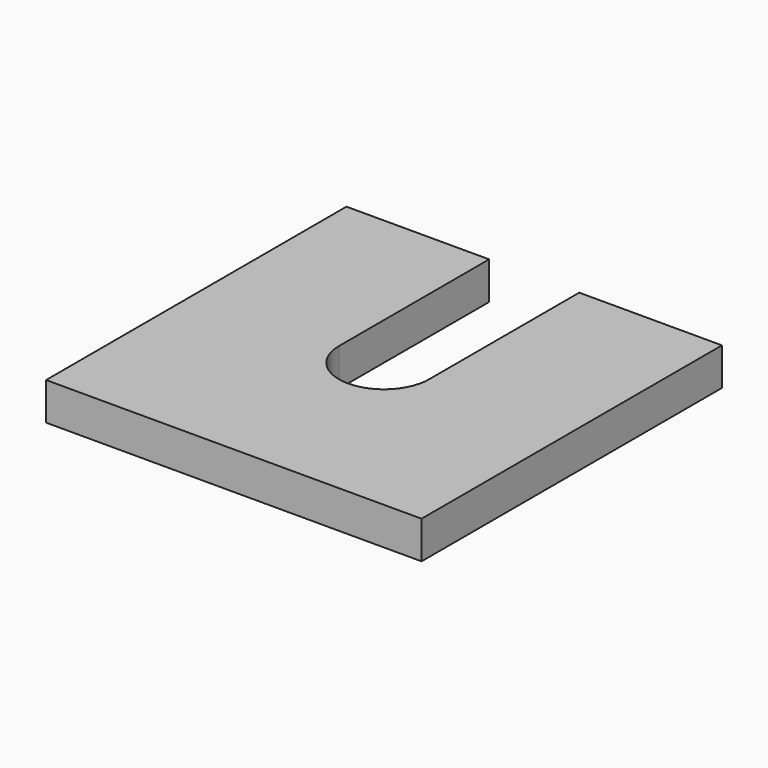
from build123d import *

# Parameters (mm, degrees)
F1_DEPTH = 10


with BuildPart() as f1:
    # F0 (on Top) → F1 (new body)
    with BuildSketch(Plane.XY):
        with BuildLine():
            Line((-12, 50), (-50, 50))
            Line((-50, 50), (-50, -50))
            Line((-50, -50), (50, -50))
            Line((50, -50), (50, 50))
            Line((50, 50), (12, 50))
            Line((12, 50), (12, 0))
            ThreePointArc((12, 0), (0, -12), (-12, 0))
            Line((-12, 0), (-12, 50))
        make_face()
    extrude(amount=F1_DEPTH)


solid = f1.part
